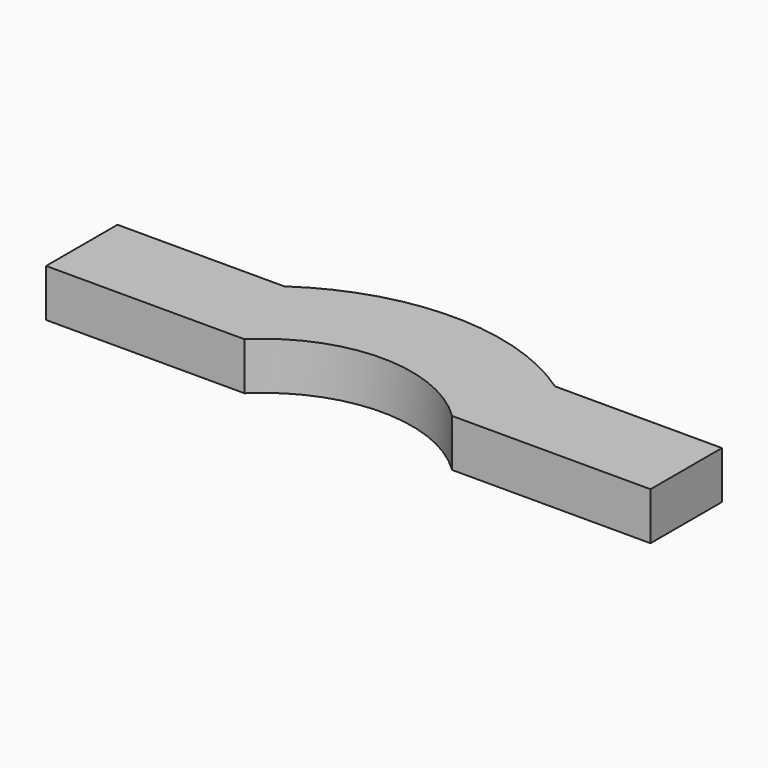
from build123d import *

# Parameters (mm, degrees)
BOX007_W                  = 6
BOX007_H                  = 4
BOX007_DEPTH              = 0.4
CYLINDER006_R             = 1.25
CYLINDER006_DEPTH         = 0.4
CYLINDER005_R             = 2
CYLINDER005_DEPTH         = 0.4
BOX006_W                  = 5.08
BOX006_H                  = 0.75
BOX006_DEPTH              = 0.4
FUSION010_PLACEMENT_ANGLE = 180


with BuildPart() as cut_cube002:
    # Box007 → Box007 (new body)
    with BuildSketch(Plane(origin=(-3, 2.915, 0), x_dir=(1, 0, 0), z_dir=(0, 0, 1))):
        with Locations((3, 2)):
            Rectangle(BOX007_W, BOX007_H)
    extrude(amount=BOX007_DEPTH)


with BuildPart() as c_cut001:
    # Cylinder006 → Cylinder006 (new body)
    with BuildSketch(Plane(origin=(0, 3.81, 0), x_dir=(1, 0, 0), z_dir=(0, 0, 1))):
        Circle(CYLINDER006_R)
    extrude(amount=CYLINDER006_DEPTH)


with BuildPart() as cut009:
    # Cylinder005 → Cylinder005 (new body)
    with BuildSketch(Plane(origin=(0, 3.81, 0), x_dir=(1, 0, 0), z_dir=(0, 0, 1))):
        Circle(CYLINDER005_R)
    extrude(amount=CYLINDER005_DEPTH)

    # Cut008: cut C_cut001
    add(c_cut001.part, mode=Mode.SUBTRACT)

    # Cut009: cut cut_cube002
    add(cut_cube002.part, mode=Mode.SUBTRACT)


with BuildPart() as a_chip003:
    # Box006 → Box006 (new body)
    with BuildSketch(Plane(origin=(-2.54, 2.165, 0), x_dir=(1, 0, 0), z_dir=(0, 0, 1))):
        with Locations((2.54, 0.375)):
            Rectangle(BOX006_W, BOX006_H)
    extrude(amount=BOX006_DEPTH)

    # Cut007: cut C_cut001
    add(c_cut001.part, mode=Mode.SUBTRACT)

    # Fusion010: union Cut009
    add(cut009.part)


with BuildPart() as a_chip003_1:
    # Fusion010 placement: moved
    add(a_chip003.part.moved(Location((2.54, -2.54, 3.5))).rotate(Axis((2.54, -2.54, 3.5), (0, 0, 1)), FUSION010_PLACEMENT_ANGLE))


solid = a_chip003_1.part
